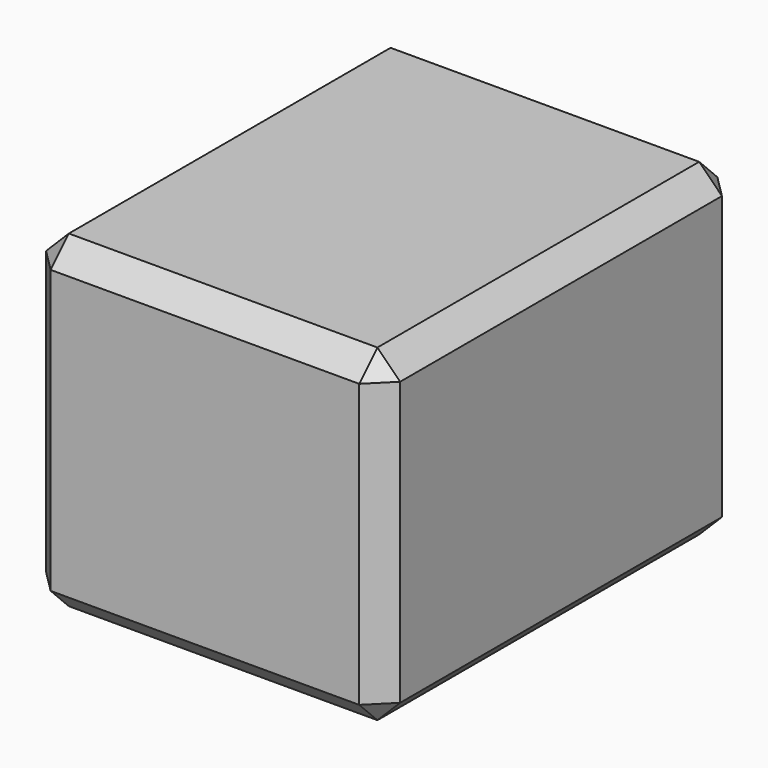
from build123d import *

# Parameters (mm, degrees)
F0_W     = 79.093858
F0_H     = 73.291604
F1_DEPTH = 50
F2_SIZE  = 5.08


with BuildPart() as f1:
    # F0 (on Front) → F1 (new body, symmetric)
    with BuildSketch(Plane.XZ):
        with Locations((2.137672, 3.053816)):
            Rectangle(F0_W, F0_H)
    extrude(amount=F1_DEPTH, both=True)

    # F2
    f2_edges = [f1.edges().sort_by_distance(p)[0] for p in [
        (2.137672, 50, 39.699618),
        (-37.409257, 0, 39.699618),
        (2.137672, -50, 39.699618),
        (41.684601, 0, 39.699618),
        (-37.409257, -50, 3.053816),
        (2.137672, -50, -33.591986),
        (41.684601, -50, 3.053816),
        (41.684601, 50, 3.053816),
        (41.684601, 0, -33.591986),
        (-37.409257, 0, -33.591986),
        (2.137672, 50, -33.591986),
        (-37.409257, 50, 3.053816),
    ]]
    chamfer(f2_edges, length=F2_SIZE)


solid = f1.part
